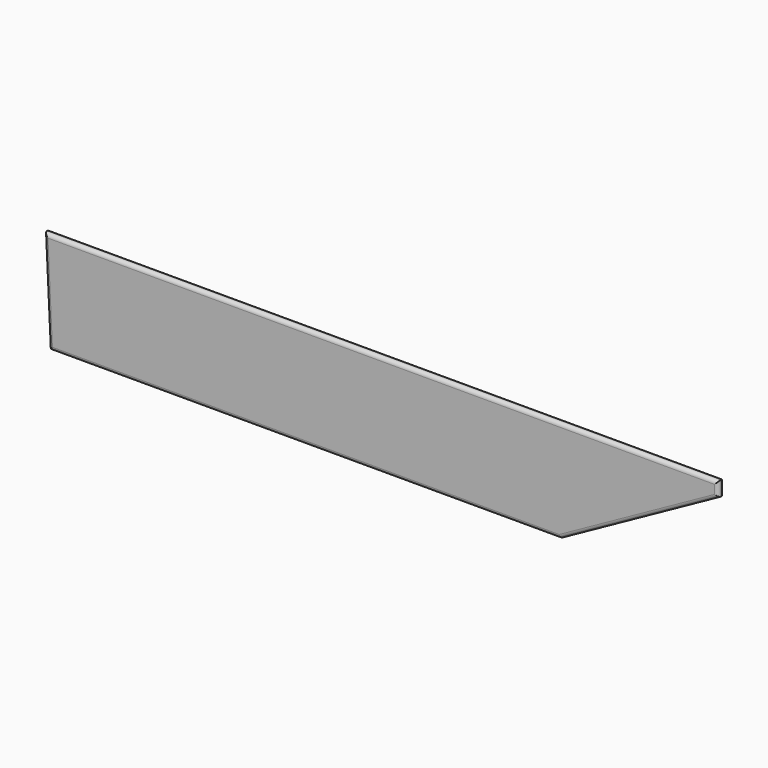
from build123d import *

# Parameters (mm, degrees)
F1_DEPTH = 6.35
F2_R     = 5


with BuildPart() as f1:
    # F0 (on Front) → F1 (new body)
    with BuildSketch(Plane.XZ):
        Polygon((372.662067, 966.672301), (-550.337933, 966.672301), (-543.763254, 827.127099), (156.236746, 827.127099), (372.662067, 946.672301), align=None)
    extrude(amount=F1_DEPTH)

    # F2
    f2_edges = [f1.edges().sort_by_distance(p)[0] for p in [
        (264.449407, -6.35, 886.8997),
        (372.662067, -6.35, 956.672301),
        (-88.837933, -6.35, 966.672301),
        (-547.050593, -6.35, 896.8997),
        (-193.763254, -6.35, 827.127099),
    ]]
    fillet(f2_edges, radius=F2_R)


solid = f1.part
